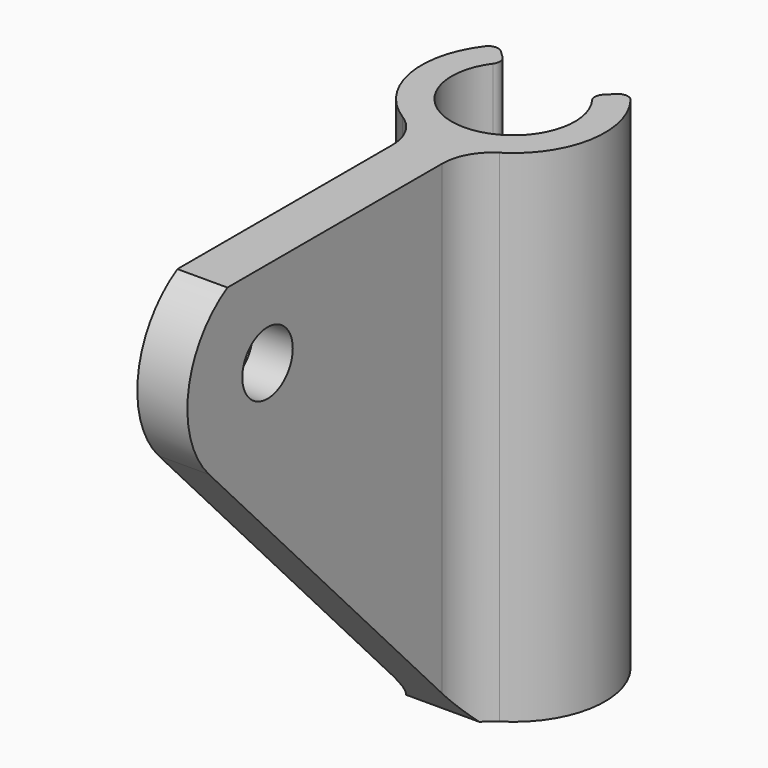
from build123d import *

# Parameters (mm, degrees)
F1_DEPTH = 50
F2_R     = 3.15
F3_DEPTH = 2.5
F4_R     = 3.15
F5_DEPTH = 1
F6_R     = 5


with BuildPart() as f1:
    # F0 (on Top) → F1 (new body)
    with BuildSketch(Plane.XY):
        with BuildLine():
            ThreePointArc((4.9458041958, 3.6553414145), (0, -6.15), (-4.9458041958, 3.6553414145))
            ThreePointArc((-4.9458041958, 3.6553414145), (-4.7531001977, 4.3283874081), (-5.0490024533, 4.9628695557))
            Line((-5.0490024533, 4.9628695557), (-5.7683657215, 5.669960926))
            ThreePointArc((-5.7683657215, 5.669960926), (-6.5394133994, 5.9543407148), (-7.2631501723, 5.5649932232))
            ThreePointArc((-7.2631501723, 5.5649932232), (-8.6851191985, -2.8794451737), (-2.5, -8.8018463972))
            Line((-2.5, -8.8018463972), (2.5, -8.8018463972))
            ThreePointArc((2.5, -8.8018463972), (8.6851191985, -2.8794451737), (7.2631501723, 5.5649932232))
            ThreePointArc((7.2631501723, 5.5649932232), (6.5394133994, 5.9543407148), (5.7683657215, 5.669960926))
            Line((5.7683657215, 5.669960926), (5.0490024533, 4.9628695557))
            ThreePointArc((5.0490024533, 4.9628695557), (4.7531001977, 4.3283874081), (4.9458041958, 3.6553414145))
        make_face()
    extrude(amount=F1_DEPTH)

    # F2 (on Right) → F3 (join, symmetric)
    with BuildSketch(Plane.YZ):
        with BuildLine():
            Line((-41.1023570115, 34.5058199478), (-8.8018463972, 0))
            Line((-8.8018463972, 0), (-8.8018463972, 50))
            Line((-8.8018463972, 50), (-38.8018463972, 50))
            ThreePointArc((-38.8018463972, 50), (-43.6934106929, 42.8084037793), (-41.1023570115, 34.5058199478))
        make_face()
        with Locations((-33.8018463972, 41.3397459622)):
            Circle(F2_R, mode=Mode.SUBTRACT)
    extrude(amount=F3_DEPTH, both=True)

    # F4 (on face) → F5 (cut)
    with BuildSketch(Plane(origin=(-2.5, 0, 0), x_dir=(0, -1, 0), z_dir=(-1, 0, 0))):
        Polygon((36.7752002835, 46.4897459622), (30.8284925109, 46.4897459622), (27.8551386246, 41.3397459622), (30.8284925109, 36.1897459622), (36.7752002835, 36.1897459622), (39.7485541699, 41.3397459622), align=None)
        with Locations((33.8018463972, 41.3397459622)):
            Circle(F4_R, mode=Mode.SUBTRACT)
    extrude(amount=-F5_DEPTH, mode=Mode.SUBTRACT)

    # F6 (call 1 of 2: OpenCascade refuses the feature's edges together)
    f6_edges = [f1.edges().sort_by_distance(p)[0] for p in [
        (2.5, -8.801846, 25),
    ]]
    fillet(f6_edges, radius=F6_R)

    # F6#2 (call 2 of 2)
    f6_2_edges = [f1.edges().sort_by_distance(p)[0] for p in [
        (-2.5, -8.801846, 25),
    ]]
    fillet(f6_2_edges, radius=F6_R)


solid = f1.part
